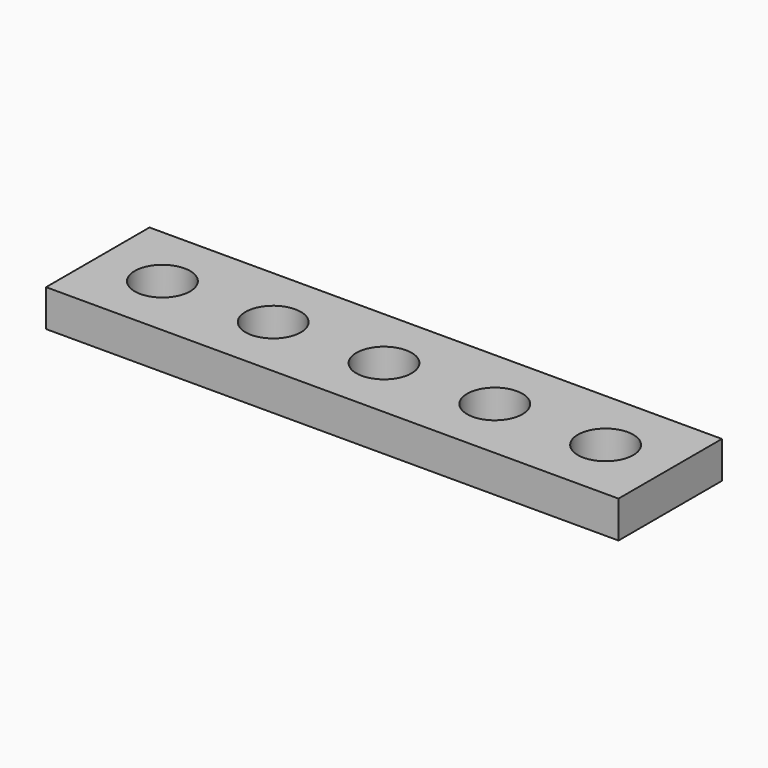
from build123d import *

# Parameters (mm, degrees)
CYLINDER_R     = 1.5
CYLINDER_DEPTH = 6
ARRAY_X_COUNT  = 5
ARRAY_X_PITCH  = 6
BOX_W          = 31
BOX_H          = 7
BOX_DEPTH      = 2


with BuildPart() as array:
    # Cylinder → Cylinder (new body)
    with BuildSketch(Plane.XY):
        Circle(CYLINDER_R)
    extrude(amount=CYLINDER_DEPTH)

    # Array X: Array ×5


with BuildPart() as array_1:
    add(array.part)
    with Locations(*[(i * ARRAY_X_PITCH, 0, 0) for i in range(1, ARRAY_X_COUNT)]):
        add(array.part)


with BuildPart() as array_2:
    # Array placement: moved
    add(array_1.part.moved(Location((3.5, 3.5, -2))))


with BuildPart() as obj1:
    # Box → Box (new body)
    with BuildSketch(Plane.XY):
        with Locations((15.5, 3.5)):
            Rectangle(BOX_W, BOX_H)
    extrude(amount=BOX_DEPTH)

    # Cut: cut Array
    add(array_2.part, mode=Mode.SUBTRACT)


solid = obj1.part
